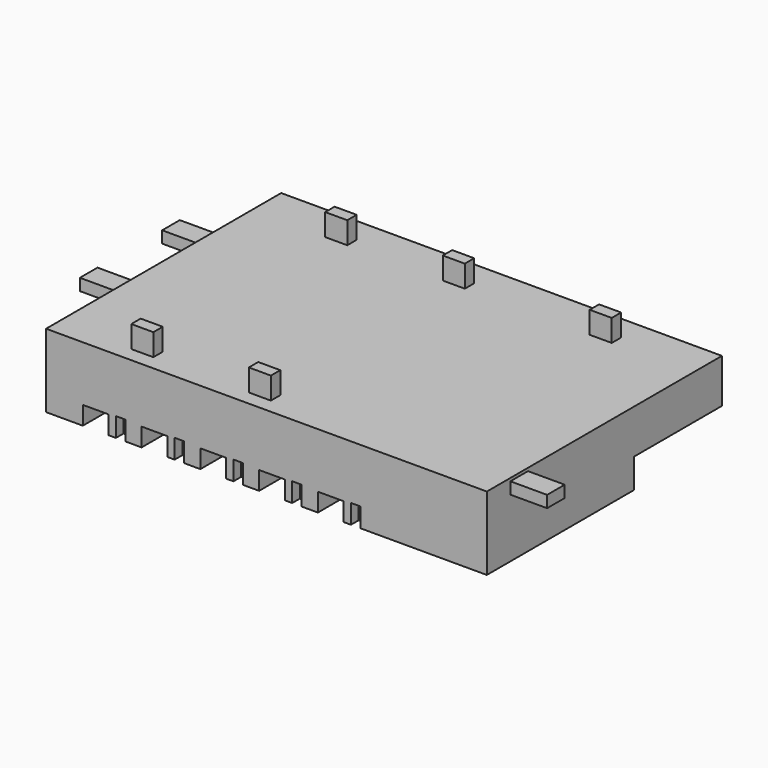
from build123d import *

# Parameters (mm, degrees)
BOX011_W     = 3048
BOX011_H     = 4572
BOX011_DEPTH = 1219.2
BOX006_W     = 1066.8
BOX006_H     = 1981.2
BOX006_DEPTH = 762
BOX005_W     = 396.24
BOX005_H     = 396.24
BOX005_DEPTH = 798.576
BOX007_W     = 1066.8
BOX007_H     = 1981.2
BOX007_DEPTH = 762
BOX008_W     = 396.24
BOX008_H     = 396.24
BOX008_DEPTH = 798.576
BOX010_W     = 1066.8
BOX010_H     = 1981.2
BOX010_DEPTH = 762
BOX009_W     = 396.24
BOX009_H     = 396.24
BOX009_DEPTH = 798.576
BOX001_W     = 1066.8
BOX001_H     = 1981.2
BOX001_DEPTH = 762
BOX002_W     = 396.24
BOX002_H     = 396.24
BOX002_DEPTH = 798.576
BOX003_W     = 1066.8
BOX003_H     = 1981.2
BOX003_DEPTH = 762
BOX004_W     = 396.24
BOX004_H     = 396.24
BOX004_DEPTH = 798.576
BOX013_W     = 2438.4
BOX013_H     = 914.4
BOX013_DEPTH = 487.68
BOX012_W     = 2438.4
BOX012_H     = 914.4
BOX012_DEPTH = 487.68
BOX020_W     = 2438.4
BOX020_H     = 914.4
BOX020_DEPTH = 487.68
BOX016_W     = 914.4
BOX016_H     = 487.68
BOX016_DEPTH = 1219.2
BOX017_W     = 914.4
BOX017_H     = 487.68
BOX017_DEPTH = 1219.2
BOX018_W     = 914.4
BOX018_H     = 487.68
BOX018_DEPTH = 1219.2
BOX019_W     = 914.4
BOX019_H     = 487.68
BOX019_DEPTH = 1219.2
BOX014_W     = 914.4
BOX014_H     = 487.68
BOX014_DEPTH = 1219.2
BOX_W        = 18288
BOX_H        = 12192
BOX_DEPTH    = 3048


with BuildPart() as nurse_station:
    # Box011 → Box011 (new body)
    with BuildSketch(Plane(origin=(15240, 7620, 0), x_dir=(1, 0, 0), z_dir=(0, 0, 1))):
        with Locations((1524, 2286)):
            Rectangle(BOX011_W, BOX011_H)
    extrude(amount=BOX011_DEPTH)


with BuildPart() as box006:
    # Box006 → Box006 (new body)
    with BuildSketch(Plane.XY):
        with Locations((533.4, 990.6)):
            Rectangle(BOX006_W, BOX006_H)
    extrude(amount=BOX006_DEPTH)


with BuildPart() as fusion002:
    # Box005 → Box005 (new body)
    with BuildSketch(Plane(origin=(1371.6, 0, 0), x_dir=(1, 0, 0), z_dir=(0, 0, 1))):
        with Locations((198.12, 198.12)):
            Rectangle(BOX005_W, BOX005_H)
    extrude(amount=BOX005_DEPTH)

    # Fusion002: union Box006
    add(box006.part)


with BuildPart() as fusion002_1:
    # Fusion002 placement: moved
    add(fusion002.part.moved(Location((4876.8, 0, 0))))


with BuildPart() as box007:
    # Box007 → Box007 (new body)
    with BuildSketch(Plane.XY):
        with Locations((533.4, 990.6)):
            Rectangle(BOX007_W, BOX007_H)
    extrude(amount=BOX007_DEPTH)


with BuildPart() as fusion003:
    # Box008 → Box008 (new body)
    with BuildSketch(Plane(origin=(1371.6, 0, 0), x_dir=(1, 0, 0), z_dir=(0, 0, 1))):
        with Locations((198.12, 198.12)):
            Rectangle(BOX008_W, BOX008_H)
    extrude(amount=BOX008_DEPTH)

    # Fusion003: union Box007
    add(box007.part)


with BuildPart() as fusion003_1:
    # Fusion003 placement: moved
    add(fusion003.part.moved(Location((7315.2, 0, 0))))


with BuildPart() as box010:
    # Box010 → Box010 (new body)
    with BuildSketch(Plane.XY):
        with Locations((533.4, 990.6)):
            Rectangle(BOX010_W, BOX010_H)
    extrude(amount=BOX010_DEPTH)


with BuildPart() as fusion004:
    # Box009 → Box009 (new body)
    with BuildSketch(Plane(origin=(1371.6, 0, 0), x_dir=(1, 0, 0), z_dir=(0, 0, 1))):
        with Locations((198.12, 198.12)):
            Rectangle(BOX009_W, BOX009_H)
    extrude(amount=BOX009_DEPTH)

    # Fusion004: union Box010
    add(box010.part)


with BuildPart() as fusion004_1:
    # Fusion004 placement: moved
    add(fusion004.part.moved(Location((9753.6, 0, 0))))


with BuildPart() as box001:
    # Box001 → Box001 (new body)
    with BuildSketch(Plane.XY):
        with Locations((533.4, 990.6)):
            Rectangle(BOX001_W, BOX001_H)
    extrude(amount=BOX001_DEPTH)


with BuildPart() as fusion:
    # Box002 → Box002 (new body)
    with BuildSketch(Plane(origin=(1371.6, 0, 0), x_dir=(1, 0, 0), z_dir=(0, 0, 1))):
        with Locations((198.12, 198.12)):
            Rectangle(BOX002_W, BOX002_H)
    extrude(amount=BOX002_DEPTH)

    # Fusion: union Box001
    add(box001.part)


with BuildPart() as box003:
    # Box003 → Box003 (new body)
    with BuildSketch(Plane.XY):
        with Locations((533.4, 990.6)):
            Rectangle(BOX003_W, BOX003_H)
    extrude(amount=BOX003_DEPTH)


with BuildPart() as right_beds:
    # Box004 → Box004 (new body)
    with BuildSketch(Plane(origin=(1371.6, 0, 0), x_dir=(1, 0, 0), z_dir=(0, 0, 1))):
        with Locations((198.12, 198.12)):
            Rectangle(BOX004_W, BOX004_H)
    extrude(amount=BOX004_DEPTH)

    # Fusion001: union Box003
    add(box003.part)


with BuildPart() as right_beds_1:
    # Fusion001 placement: moved
    add(right_beds.part.moved(Location((2438.4, 0, 0))))

    # Fusion005: union Fusion002, Fusion003, Fusion004, Fusion
    add(fusion002_1.part)
    add(fusion003_1.part)
    add(fusion004_1.part)
    add(fusion.part)


with BuildPart() as surfaces:
    # Part__Mirroring: instance of right beds
    add(right_beds_1.part.mirror(Plane(origin=(0, 6096, 0), x_dir=(1, 0, 0), z_dir=(0, 1, 0))))

    # Fusion006: union right beds
    add(right_beds_1.part)


with BuildPart() as surfaces_1:
    # Fusion006 placement: moved
    add(surfaces.part.moved(Location((1524, 0, 0))))

    # Fusion010: union Nurse Station
    add(nurse_station.part)


with BuildPart() as main_outlet:
    # Box013 → Box013 (new body)
    with BuildSketch(Plane(origin=(-1524, 3657.6, 2438.4), x_dir=(1, 0, 0), z_dir=(0, 0, 1))):
        with Locations((1219.2, 457.2)):
            Rectangle(BOX013_W, BOX013_H)
    extrude(amount=BOX013_DEPTH)


with BuildPart() as main_inlet:
    # Box012 → Box012 (new body)
    with BuildSketch(Plane(origin=(17373.6, 1219.2, 2438.4), x_dir=(1, 0, 0), z_dir=(0, 0, 1))):
        with Locations((1219.2, 457.2)):
            Rectangle(BOX012_W, BOX012_H)
    extrude(amount=BOX012_DEPTH)


with BuildPart() as main_ducts:
    # Box020 → Box020 (new body)
    with BuildSketch(Plane(origin=(-1524, 7924.8, 2438.4), x_dir=(1, 0, 0), z_dir=(0, 0, 1))):
        with Locations((1219.2, 457.2)):
            Rectangle(BOX020_W, BOX020_H)
    extrude(amount=BOX020_DEPTH)

    # Fusion007: union main outlet, main inlet
    add(main_outlet.part)
    add(main_inlet.part)


with BuildPart() as branch002:
    # Box016 → Box016 (new body)
    with BuildSketch(Plane(origin=(7924.8, 609.6, 2743.2), x_dir=(1, 0, 0), z_dir=(0, 0, 1))):
        with Locations((457.2, 243.84)):
            Rectangle(BOX016_W, BOX016_H)
    extrude(amount=BOX016_DEPTH)


with BuildPart() as branch003:
    # Box017 → Box017 (new body)
    with BuildSketch(Plane(origin=(7924.8, 10668, 2743.2), x_dir=(1, 0, 0), z_dir=(0, 0, 1))):
        with Locations((457.2, 243.84)):
            Rectangle(BOX017_W, BOX017_H)
    extrude(amount=BOX017_DEPTH)


with BuildPart() as branch004:
    # Box018 → Box018 (new body)
    with BuildSketch(Plane(origin=(3048, 609.6, 2743.2), x_dir=(1, 0, 0), z_dir=(0, 0, 1))):
        with Locations((457.2, 243.84)):
            Rectangle(BOX018_W, BOX018_H)
    extrude(amount=BOX018_DEPTH)


with BuildPart() as branch005:
    # Box019 → Box019 (new body)
    with BuildSketch(Plane(origin=(3048, 10668, 2743.2), x_dir=(1, 0, 0), z_dir=(0, 0, 1))):
        with Locations((457.2, 243.84)):
            Rectangle(BOX019_W, BOX019_H)
    extrude(amount=BOX019_DEPTH)


with BuildPart() as vents:
    # Box014 → Box014 (new body)
    with BuildSketch(Plane(origin=(14020.8, 10668, 2743.2), x_dir=(1, 0, 0), z_dir=(0, 0, 1))):
        with Locations((457.2, 243.84)):
            Rectangle(BOX014_W, BOX014_H)
    extrude(amount=BOX014_DEPTH)

    # Fusion008: union branch002, branch003, branch004, branch005
    add(branch002.part)
    add(branch003.part)
    add(branch004.part)
    add(branch005.part)

    # Fusion009: union main_ducts
    add(main_ducts.part)


with BuildPart() as cut:
    # Box → Box (new body)
    with BuildSketch(Plane.XY):
        with Locations((9144, 6096)):
            Rectangle(BOX_W, BOX_H)
    extrude(amount=BOX_DEPTH)

    # Fusion011: union vents
    add(vents.part)

    # Cut: cut surfaces
    add(surfaces_1.part, mode=Mode.SUBTRACT)


solid = cut.part
